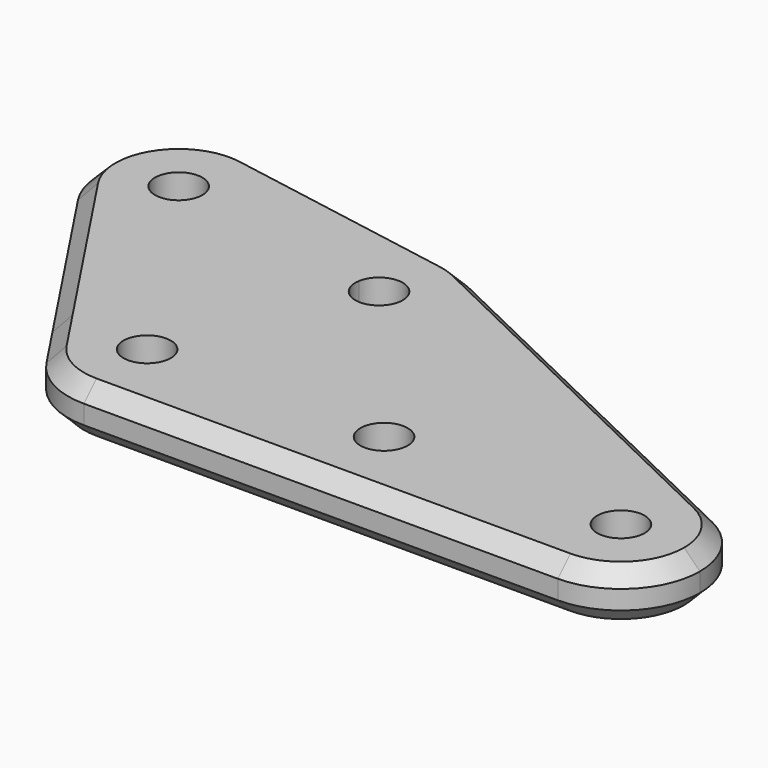
from build123d import *

# Parameters (mm, degrees)
F0_R     = 3
F1_DEPTH = 6.4
F4_DEPTH = 3.2
F5_SIZE  = 2


with BuildPart() as f1:
    # F0 (on Top) → F1 (new body)
    with BuildSketch(Plane.XY):
        with BuildLine():
            Line((-69.9830439783, 22.2635182233), (-43.4754125815, 17.5895076134))
            Line((-43.4754125815, 17.5895076134), (-75.4919030254, 33.0095051449))
            ThreePointArc((-75.4919030254, 33.0095051449), (-71.3637669974, 29.3201416884), (-69.8311215084, 24))
            ThreePointArc((-69.8311215084, 24), (-69.8691745275, 23.1284425725), (-69.9830439783, 22.2635182233))
        make_face()
        with BuildLine():
            Line((-90, -10), (-30, -10))
            ThreePointArc((-30, -10), (-37.0710678119, -7.0710678119), (-40, 0))
            Line((-40, 0), (-57, 0))
            ThreePointArc((-57, 0), (-60, -3), (-63, 0))
            Line((-63, 0), (-80, 0))
            ThreePointArc((-80, 0), (-82.9289321881, -7.0710678119), (-90, -10))
        make_face()
        with BuildLine():
            Line((-78.0946397318, 33.8480775301), (-107.6388723221, 39.0575228601))
            ThreePointArc((-107.6388723221, 39.0575228601), (-101.7149096676, 35.6373214269), (-99.3753540988, 29.20944533))
            ThreePointArc((-99.3753540988, 29.20944533), (-99.4134071179, 28.3378879025), (-99.5272765687, 27.4729635533))
            Line((-99.5272765687, 27.4729635533), (-89.6791990386, 25.7364817767))
            ThreePointArc((-89.6791990386, 25.7364817767), (-85.566885872, 32.1915204429), (-78.0946397318, 33.8480775301))
        make_face()
        with BuildLine():
            Line((-78.0946397318, 33.8480775301), (-107.6388723221, 39.0575228601))
            ThreePointArc((-107.6388723221, 39.0575228601), (-101.7149096676, 35.6373214269), (-99.3753540988, 29.20944533))
            ThreePointArc((-99.3753540988, 29.20944533), (-99.4134071179, 28.3378879025), (-99.5272765687, 27.4729635533))
            Line((-99.5272765687, 27.4729635533), (-89.6791990386, 25.7364817767))
            ThreePointArc((-89.6791990386, 25.7364817767), (-85.566885872, 32.1915204429), (-78.0946397318, 33.8480775301))
        make_face()
        with BuildLine():
            ThreePointArc((-89.6791990386, 25.7364817767), (-81.5676032851, 14.1519224699), (-69.9830439783, 22.2635182233))
            Line((-69.9830439783, 22.2635182233), (-76.8766982494, 23.479055467))
            ThreePointArc((-76.8766982494, 23.479055467), (-80.3520660414, 21.045576741), (-82.7855447675, 24.520944533))
            Line((-82.7855447675, 24.520944533), (-89.6791990386, 25.7364817767))
        make_face()
        with BuildLine():
            Line((-69.9830439783, 22.2635182233), (-43.4754125815, 17.5895076134))
            Line((-43.4754125815, 17.5895076134), (-75.4919030254, 33.0095051449))
            ThreePointArc((-75.4919030254, 33.0095051449), (-71.3637669974, 29.3201416884), (-69.8311215084, 24))
            ThreePointArc((-69.8311215084, 24), (-69.8691745275, 23.1284425725), (-69.9830439783, 22.2635182233))
        make_face()
        with BuildLine():
            ThreePointArc((-69.8311215084, 24), (-71.3637669974, 29.3201416884), (-75.4919030254, 33.0095051449))
            ThreePointArc((-75.4919030254, 33.0095051449), (-76.7644727965, 33.5181755435), (-78.0946397318, 33.8480775301))
            ThreePointArc((-78.0946397318, 33.8480775301), (-85.566885872, 32.1915204429), (-89.6791990386, 25.7364817767))
            Line((-89.6791990386, 25.7364817767), (-82.7855447675, 24.520944533))
            ThreePointArc((-82.7855447675, 24.520944533), (-79.5696542802, 26.9885840943), (-76.8311215084, 24))
            ThreePointArc((-76.8311215084, 24), (-76.8425374142, 23.7385327718), (-76.8766982494, 23.479055467))
            Line((-76.8766982494, 23.479055467), (-69.9830439783, 22.2635182233))
            ThreePointArc((-69.9830439783, 22.2635182233), (-69.8691745275, 23.1284425725), (-69.8311215084, 24))
        make_face()
        with BuildLine():
            Line((-57, 0), (-40, 0))
            ThreePointArc((-40, 0), (-35.3201416884, 8.467354511), (-25.660781517, 9.0095051449))
            Line((-25.660781517, 9.0095051449), (-43.4754125815, 17.5895076134))
            Line((-43.4754125815, 17.5895076134), (-69.9830439783, 22.2635182233))
            ThreePointArc((-69.9830439783, 22.2635182233), (-81.5676032851, 14.1519224699), (-89.6791990386, 25.7364817767))
            Line((-89.6791990386, 25.7364817767), (-99.5272765687, 27.4729635533))
            ThreePointArc((-99.5272765687, 27.4729635533), (-107.3340404203, 19.4200102868), (-117.7086874321, 23.6817373461))
            Line((-117.7086874321, 23.6817373461), (-102, 0))
            Line((-102, 0), (-98.3333333333, -5.5277079839))
            ThreePointArc((-98.3333333333, -5.5277079839), (-92.8867513459, 9.5742710776), (-80, 0))
            Line((-80, 0), (-63, 0))
            ThreePointArc((-63, 0), (-60, 3), (-57, 0))
        make_face()
        with BuildLine():
            Line((-90, -10), (-30, -10))
            ThreePointArc((-30, -10), (-37.0710678119, -7.0710678119), (-40, 0))
            Line((-40, 0), (-57, 0))
            ThreePointArc((-57, 0), (-60, -3), (-63, 0))
            Line((-63, 0), (-80, 0))
            ThreePointArc((-80, 0), (-82.9289321881, -7.0710678119), (-90, -10))
        make_face()
        with BuildLine():
            ThreePointArc((-98.3333333333, -5.5277079839), (-94.7287905515, -8.8112734562), (-90, -10))
            ThreePointArc((-90, -10), (-82.9289321881, -7.0710678119), (-80, 0))
            ThreePointArc((-80, 0), (-92.8867513459, 9.5742710776), (-98.3333333333, -5.5277079839))
        make_face()
        with Locations((-90, 0)):
            Circle(F0_R, mode=Mode.SUBTRACT)
        with BuildLine():
            ThreePointArc((-107.6388723221, 39.0575228601), (-117.7409567465, 34.6881944885), (-117.7086874321, 23.6817373461))
            ThreePointArc((-117.7086874321, 23.6817373461), (-107.3340404203, 19.4200102868), (-99.5272765687, 27.4729635533))
            ThreePointArc((-99.5272765687, 27.4729635533), (-99.4134071179, 28.3378879025), (-99.3753540988, 29.20944533))
            ThreePointArc((-99.3753540988, 29.20944533), (-101.7149096676, 35.6373214269), (-107.6388723221, 39.0575228601))
        make_face()
        with BuildLine():
            ThreePointArc((-106.3753540988, 29.20944533), (-106.3867700045, 28.9479781018), (-106.4209308398, 28.688500797))
            ThreePointArc((-106.4209308398, 28.688500797), (-112.3639381931, 29.4709125583), (-106.3753540988, 29.20944533))
        make_face(mode=Mode.SUBTRACT)
        with BuildLine():
            ThreePointArc((-40, 0), (-37.0710678119, -7.0710678119), (-30, -10))
            ThreePointArc((-30, -10), (-22.9289321881, -7.0710678119), (-20, 0))
            Line((-20, 0), (-27, 0))
            ThreePointArc((-27, 0), (-30, -3), (-33, 0))
            Line((-33, 0), (-40, 0))
        make_face()
        with BuildLine():
            Line((-27, 0), (-20, 0))
            ThreePointArc((-20, 0), (-21.532645489, 5.3201416884), (-25.660781517, 9.0095051449))
            ThreePointArc((-25.660781517, 9.0095051449), (-35.3201416884, 8.467354511), (-40, 0))
            Line((-40, 0), (-33, 0))
            ThreePointArc((-33, 0), (-30, 3), (-27, 0))
        make_face()
    extrude(amount=F1_DEPTH)

    # F3 (on offset) → F4 (cut)
    with BuildSketch(Plane.XY.offset(6.4)):
        with BuildLine():
            Line((-121.5190547769, 44.7572868572), (-125.6350207552, 21.4144838341))
            Line((-125.6350207552, 21.4144838341), (-111.1986603593, 18.868963993))
            Line((-111.1986603593, 18.868963993), (-81.6544272584, 13.659518573))
            ThreePointArc((-81.6544272584, 13.659518573), (-86.5803914551, 32.043466615), (-69.3311215084, 24))
            ThreePointArc((-69.3311215084, 24), (-69.3710771859, 23.0848646168), (-69.4906401312, 22.1766939678))
            Line((-69.4906401312, 22.1766939678), (-67.197979989, 35.179015751))
            Line((-67.197979989, 35.179015751), (-121.5190547769, 44.7572868572))
        make_face()
        with BuildLine():
            ThreePointArc((-98.8753540988, 29.20944533), (-102.6260843507, 21.1659785483), (-111.1986603593, 18.868963993))
            ThreePointArc((-111.1986603593, 18.868963993), (-116.1246238469, 37.2529121117), (-98.8753540988, 29.20944533))
        make_face(mode=Mode.SUBTRACT)
        with BuildLine():
            ThreePointArc((-98.8753540988, 29.20944533), (-116.1246238469, 37.2529121117), (-111.1986603593, 18.868963993))
            ThreePointArc((-111.1986603593, 18.868963993), (-102.6260843507, 21.1659785483), (-98.8753540988, 29.20944533))
        make_face()
        with BuildLine():
            ThreePointArc((-69.3311215084, 24), (-86.5803914551, 32.043466615), (-81.6544272584, 13.659518573))
            ThreePointArc((-81.6544272584, 13.659518573), (-73.808568948, 15.3989035201), (-69.4906401312, 22.1766939678))
            ThreePointArc((-69.4906401312, 22.1766939678), (-69.3710771859, 23.0848646168), (-69.3311215084, 24))
        make_face()
        with BuildLine():
            ThreePointArc((-69.4906401312, 22.1766939678), (-73.808568948, 15.3989035201), (-81.6544272584, 13.659518573))
            Line((-81.6544272584, 13.659518573), (-71.3139459673, 11.8362127279))
            Line((-71.3139459673, 11.8362127279), (-69.4906401312, 22.1766939678))
        make_face()
    extrude(amount=-F4_DEPTH, mode=Mode.SUBTRACT)

    # F5
    f5_edges = [f1.edges().sort_by_distance(p)[0] for p in [
        (-50.576342, 21.009505, 0),
        (-46.930289, 19.253468, 6.4),
    ]]
    chamfer(f5_edges, length=F5_SIZE)


with BuildPart() as f6_1:
    # F6: instance of F1
    add(f1.part.mirror(Plane(origin=(-64.9639850302, 5.284700152, 6.4), x_dir=(1, 0, 0), z_dir=(0, 0, 1))))


solid = f6_1.part
